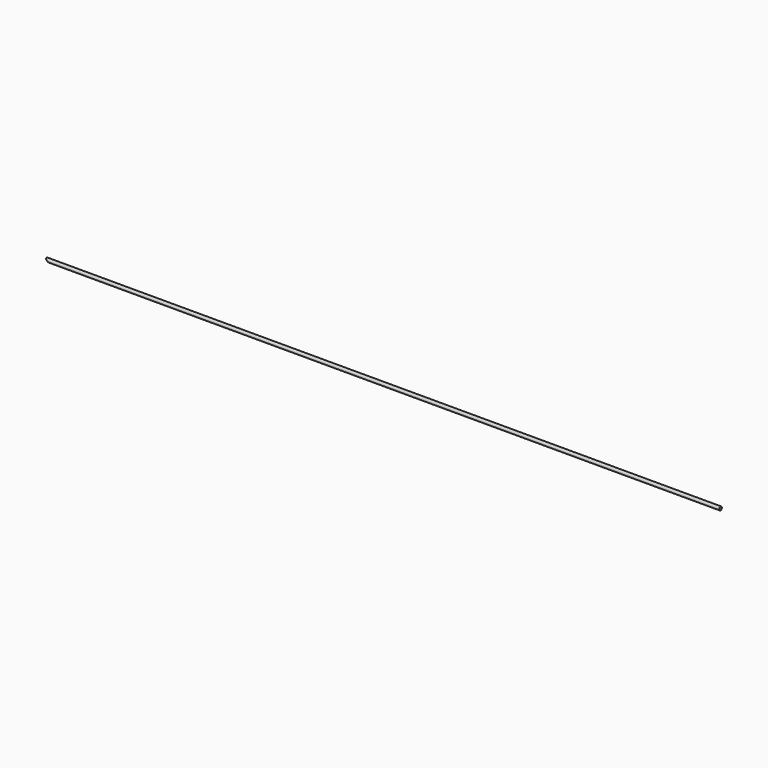
from build123d import *

# Parameters (mm, degrees)
F0_R     = 0.0625
F1_DEPTH = 25
F3_DEPTH = 25
F4_DEPTH = 25


with BuildPart() as f1:
    # F0 (on Right) → F1 (new body)
    with BuildSketch(Plane.YZ):
        Circle(F0_R)
    extrude(amount=F1_DEPTH)

    # F2 (on Front) → F3 (cut)
    with BuildSketch(Plane.XZ):
        Polygon((0.153794, -0.075297), (0, 0.06318), (0, -0.075297), align=None)
    extrude(amount=-F3_DEPTH, mode=Mode.SUBTRACT)

    # F2 (on Front) → F4 (cut)
    with BuildSketch(Plane.XZ):
        Polygon((0.153794, -0.075297), (0, 0.06318), (0, -0.075297), align=None)
    extrude(amount=F4_DEPTH, mode=Mode.SUBTRACT)


solid = f1.part
